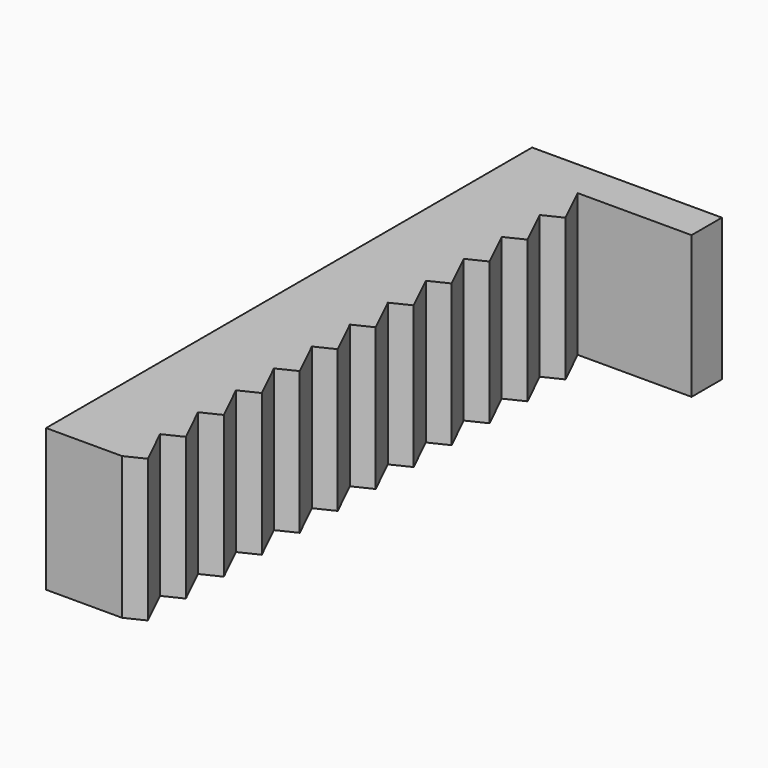
from build123d import *

# Parameters (mm, degrees)
F1_DEPTH = 19.05


with BuildPart() as f1:
    # F0 (on Top) → F1 (new body)
    with BuildSketch(Plane.XY):
        Polygon((-2.859881, 30.001963), (-2.859881, -46.198037), (7.300119, -46.198037), (9.792597, -44.989806), (7.300119, -39.848037), (9.792597, -38.639806), (7.300119, -33.498037), (9.792597, -32.289806), (7.300119, -27.148037), (9.792597, -25.939806), (7.300119, -20.798037), (9.792597, -19.589806), (7.300119, -14.448037), (9.792597, -13.239806), (7.300119, -8.098037), (9.792597, -6.889806), (7.300119, -1.748037), (9.792597, -0.539806), (7.300119, 4.601963), (9.792597, 5.810194), (7.300119, 10.951963), (9.792597, 12.160194), (7.300119, 17.301963), (9.792597, 18.510194), (7.300119, 23.651963), (9.792597, 24.860194), (7.300119, 30.001963), (22.540119, 30.001963), (22.540119, 35.081963), (-2.859881, 35.081963), align=None)
    extrude(amount=F1_DEPTH)


solid = f1.part
